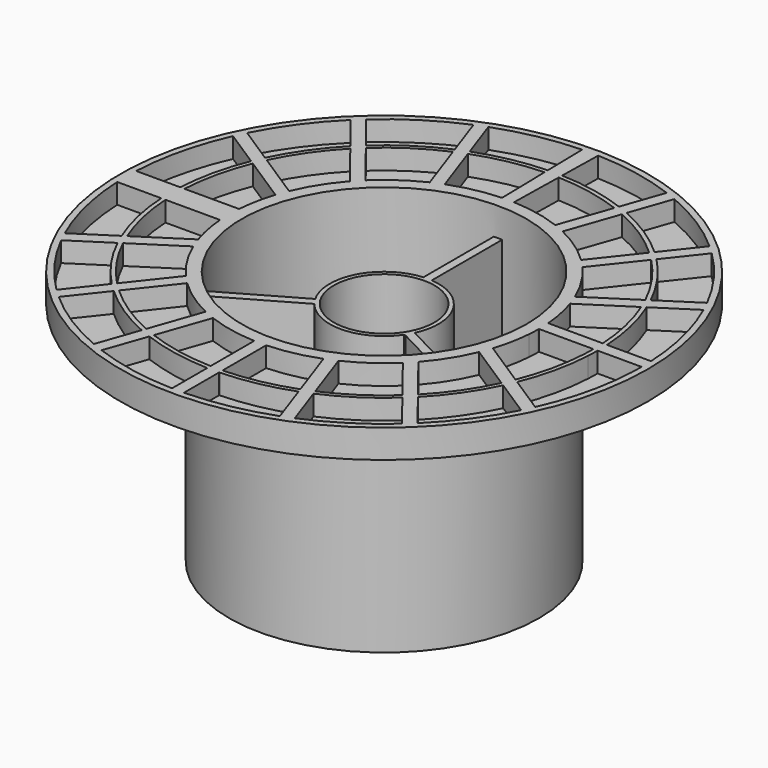
from build123d import *

# Parameters (mm, degrees)
F0_R     = 31.5
F0_R_2   = 17
F1_DEPTH = 3.4
F2_R     = 31.5
F2_R_2   = 18.5
F3_DEPTH = 1
F4_R     = 18.5
F4_R_2   = 17
F5_DEPTH = 27
F6_R     = 6
F7_DEPTH = 25


with BuildPart() as f1:
    # F0 (on Top) → F1 (new body)
    with BuildSketch(Plane.XY):
        Circle(F0_R)
        with BuildLine():
            Line((-27.4436742381, -13.8710938399), (-23.006088724, -10.9986308977))
            ThreePointArc((-23.006088724, -10.9986308977), (-20.9135237136, -14.5902202135), (-18.2652477952, -17.794120461))
            Line((-18.2652477952, -17.794120461), (-21.5415992381, -21.9436095998))
            ThreePointArc((-21.5415992381, -21.9436095998), (-24.8229859617, -18.1488806251), (-27.4436742381, -13.8710938399))
        make_face(mode=Mode.SUBTRACT)
        with BuildLine():
            ThreePointArc((-0.8529855668, -25.4857296467), (-0.782595415, -25.4879882379), (-0.7121992939, -25.4900524159))
            Line((-0.7121992939, -25.4900524159), (-0.7121992939, -30.7417512866))
            ThreePointArc((-0.7121992939, -30.7417512866), (-0.8353914091, -30.7386502826), (-0.9585701076, -30.73505561))
            ThreePointArc((-0.9585701076, -30.73505561), (-5.8759187132, -30.1833742195), (-10.6411145751, -28.8501157814))
            Line((-10.6411145751, -28.8501157814), (-8.9054322446, -23.8944193597))
            ThreePointArc((-8.9054322446, -23.8944193597), (-4.9436572143, -25.0161998183), (-0.8529855668, -25.4857296467))
        make_face(mode=Mode.SUBTRACT)
        with BuildLine():
            Line((-20.4830167761, -22.9348757082), (-17.2223888601, -18.8053003685))
            ThreePointArc((-17.2223888601, -18.8053003685), (-13.9231586227, -21.3634185927), (-10.2507408631, -23.3489252806))
            Line((-10.2507408631, -23.3489252806), (-11.9903908348, -28.315950057))
            ThreePointArc((-11.9903908348, -28.315950057), (-16.4581147387, -25.9748524394), (-20.4830167761, -22.9348757082))
        make_face(mode=Mode.SUBTRACT)
        with BuildLine():
            ThreePointArc((-10.0849663831, -22.8756082553), (-13.6816044176, -20.9239981973), (-16.911693948, -18.4118062071))
            Line((-16.911693948, -18.4118062071), (-12.868466554, -13.2910710083))
            ThreePointArc((-12.868466554, -13.2910710083), (-10.5379738685, -15.2052986405), (-7.9274292982, -16.7154379159))
            Line((-7.9274292982, -16.7154379159), (-10.0849663831, -22.8756082553))
        make_face(mode=Mode.SUBTRACT)
        with BuildLine():
            ThreePointArc((-6.59093834, -17.2861080581), (-3.7005488285, -18.1261120588), (-0.7121992939, -18.4862860566))
            Line((-0.7121992939, -18.4862860566), (-0.7121992939, -24.9898533842))
            ThreePointArc((-0.7121992939, -24.9898533842), (-0.7775671701, -24.9879048601), (-0.8429297254, -24.9857853484))
            ThreePointArc((-0.8429297254, -24.9857853484), (-4.8548680935, -24.5240750242), (-8.740122944, -23.4224305085))
            Line((-8.740122944, -23.4224305085), (-6.59093834, -17.2861080581))
        make_face(mode=Mode.SUBTRACT)
        with BuildLine():
            Line((-22.5827890407, -10.7246276926), (-17.0620300047, -7.1510231518))
            ThreePointArc((-17.0620300047, -7.1510231518), (-15.6765736872, -9.8231887607), (-13.8761309472, -12.2353173206))
            Line((-13.8761309472, -12.2353173206), (-17.95270536, -17.3982864173))
            ThreePointArc((-17.95270536, -17.3982864173), (-20.5405941192, -14.2507541285), (-22.5827890407, -10.7246276926))
        make_face(mode=Mode.SUBTRACT)
        with BuildLine():
            ThreePointArc((-28.0721264282, -12.5506261915), (-29.9172225404, -7.1079037325), (-30.7173382505, -1.4169088916))
            Line((-30.7173382505, -1.4169088916), (-25.4606042582, -1.4169088916))
            ThreePointArc((-25.4606042582, -1.4169088916), (-24.8743005284, -5.6141939069), (-23.6009285068, -9.6564058332))
            Line((-23.6009285068, -9.6564058332), (-28.0721264282, -12.5506261915))
        make_face(mode=Mode.SUBTRACT)
        with BuildLine():
            ThreePointArc((-23.1736634862, -9.3798358529), (-24.393851507, -5.471746399), (-24.9598150873, -1.4169088916))
            Line((-24.9598150873, -1.4169088916), (-18.4456599013, -1.4169088916))
            ThreePointArc((-18.4456599013, -1.4169088916), (-18.1435359718, -3.6141530735), (-17.5806349144, -5.7594510162))
            Line((-17.5806349144, -5.7594510162), (-23.1736634862, -9.3798358529))
        make_face(mode=Mode.SUBTRACT)
        with BuildLine():
            Line((0.7121992939, -30.7417512866), (0.7121992939, -25.4900524159))
            ThreePointArc((0.7121992939, -25.4900524159), (0.782595415, -25.4879882379), (0.8529855668, -25.4857296467))
            ThreePointArc((0.8529855668, -25.4857296467), (4.9436572143, -25.0161998183), (8.9054322446, -23.8944193597))
            Line((8.9054322446, -23.8944193597), (10.6411145751, -28.8501157814))
            ThreePointArc((10.6411145751, -28.8501157814), (5.8759187132, -30.1833742195), (0.9585701076, -30.73505561))
            ThreePointArc((0.9585701076, -30.73505561), (0.8353914091, -30.7386502826), (0.7121992939, -30.7417512866))
        make_face(mode=Mode.SUBTRACT)
        with BuildLine():
            Line((0.7121992939, -24.9898533842), (0.7121992939, -18.4862860566))
            ThreePointArc((0.7121992939, -18.4862860566), (3.7005488285, -18.1261120588), (6.59093834, -17.2861080581))
            Line((6.59093834, -17.2861080581), (8.740122944, -23.4224305085))
            ThreePointArc((8.740122944, -23.4224305085), (4.8548680935, -24.5240750242), (0.8429297254, -24.9857853484))
            ThreePointArc((0.8429297254, -24.9857853484), (0.7775671701, -24.9879048601), (0.7121992939, -24.9898533842))
        make_face(mode=Mode.SUBTRACT)
        with BuildLine():
            Line((17.2223888601, -18.8053003685), (20.4830167761, -22.9348757082))
            ThreePointArc((20.4830167761, -22.9348757082), (16.4581147387, -25.9748524394), (11.9903908348, -28.315950057))
            Line((11.9903908348, -28.315950057), (10.2507408631, -23.3489252806))
            ThreePointArc((10.2507408631, -23.3489252806), (13.9231586227, -21.3634185927), (17.2223888601, -18.8053003685))
        make_face(mode=Mode.SUBTRACT)
        with BuildLine():
            ThreePointArc((7.9274292982, -16.7154379159), (10.5379738685, -15.2052986405), (12.868466554, -13.2910710083))
            Line((12.868466554, -13.2910710083), (16.911693948, -18.4118062071))
            ThreePointArc((16.911693948, -18.4118062071), (13.6816044176, -20.9239981973), (10.0849663831, -22.8756082553))
            Line((10.0849663831, -22.8756082553), (7.9274292982, -16.7154379159))
        make_face(mode=Mode.SUBTRACT)
        with BuildLine():
            ThreePointArc((18.2652477952, -17.794120461), (20.9135237136, -14.5902202135), (23.006088724, -10.9986308977))
            Line((23.006088724, -10.9986308977), (27.4436742381, -13.8710938399))
            ThreePointArc((27.4436742381, -13.8710938399), (24.8229859617, -18.1488806251), (21.5415992381, -21.9436095998))
            Line((21.5415992381, -21.9436095998), (18.2652477952, -17.794120461))
        make_face(mode=Mode.SUBTRACT)
        with BuildLine():
            Line((17.95270536, -17.3982864173), (13.8761309472, -12.2353173206))
            ThreePointArc((13.8761309472, -12.2353173206), (15.6765736872, -9.8231887607), (17.0620300047, -7.1510231518))
            Line((17.0620300047, -7.1510231518), (22.5827890407, -10.7246276926))
            ThreePointArc((22.5827890407, -10.7246276926), (20.5405941192, -14.2507541285), (17.95270536, -17.3982864173))
        make_face(mode=Mode.SUBTRACT)
        with BuildLine():
            ThreePointArc((18.4994527055, -0.1423010723), (18.4997921429, -0.0876964724), (18.4999704048, -0.0330911084))
            Line((18.4999704048, -0.0330911084), (24.9999780996, -0.0330911084))
            ThreePointArc((24.9999780996, -0.0330911084), (24.9894772201, -0.7252780618), (24.9598150873, -1.4169088916))
            ThreePointArc((24.9598150873, -1.4169088916), (24.393851507, -5.471746399), (23.1736634862, -9.3798358529))
            Line((23.1736634862, -9.3798358529), (17.5806349144, -5.7594510162))
            ThreePointArc((17.5806349144, -5.7594510162), (18.1435359718, -3.6141530735), (18.4456599013, -1.4169088916))
            ThreePointArc((18.4456599013, -1.4169088916), (18.4835465389, -0.7800688074), (18.4994527055, -0.1423010723))
        make_face(mode=Mode.SUBTRACT)
        with BuildLine():
            ThreePointArc((25.4606042582, -1.4169088916), (25.4896839411, -0.7252672496), (25.499978529, -0.0330911084))
            Line((25.499978529, -0.0330911084), (30.7499821948, -0.0330911084))
            ThreePointArc((30.7499821948, -0.0330911084), (30.7414477309, -0.7251837055), (30.7173382505, -1.4169088916))
            ThreePointArc((30.7173382505, -1.4169088916), (29.9172225404, -7.1079037325), (28.0721264282, -12.5506261915))
            Line((28.0721264282, -12.5506261915), (23.6009285068, -9.6564058332))
            ThreePointArc((23.6009285068, -9.6564058332), (24.8743005284, -5.6141939069), (25.4606042582, -1.4169088916))
        make_face(mode=Mode.SUBTRACT)
        with BuildLine():
            Line((-25.4606042582, 1.4169088916), (-30.7173382505, 1.4169088916))
            ThreePointArc((-30.7173382505, 1.4169088916), (-29.9172225404, 7.1079037325), (-28.0721264282, 12.5506261915))
            Line((-28.0721264282, 12.5506261915), (-23.6009285068, 9.6564058332))
            ThreePointArc((-23.6009285068, 9.6564058332), (-24.8743005284, 5.6141939069), (-25.4606042582, 1.4169088916))
        make_face(mode=Mode.SUBTRACT)
        with BuildLine():
            ThreePointArc((-17.5806349144, 5.7594510162), (-18.1435359718, 3.6141530735), (-18.4456599013, 1.4169088916))
            Line((-18.4456599013, 1.4169088916), (-24.9598150873, 1.4169088916))
            ThreePointArc((-24.9598150873, 1.4169088916), (-24.393851507, 5.471746399), (-23.1736634862, 9.3798358529))
            Line((-23.1736634862, 9.3798358529), (-17.5806349144, 5.7594510162))
        make_face(mode=Mode.SUBTRACT)
        with BuildLine():
            Line((-17.95270536, 17.3982864173), (-13.8761309472, 12.2353173206))
            ThreePointArc((-13.8761309472, 12.2353173206), (-15.6765736872, 9.8231887607), (-17.0620300047, 7.1510231518))
            Line((-17.0620300047, 7.1510231518), (-22.5827890407, 10.7246276926))
            ThreePointArc((-22.5827890407, 10.7246276926), (-20.5405941192, 14.2507541285), (-17.95270536, 17.3982864173))
        make_face(mode=Mode.SUBTRACT)
        with BuildLine():
            ThreePointArc((-18.2652477952, 17.794120461), (-20.9135237136, 14.5902202135), (-23.006088724, 10.9986308977))
            Line((-23.006088724, 10.9986308977), (-27.4436742381, 13.8710938399))
            ThreePointArc((-27.4436742381, 13.8710938399), (-24.8229859617, 18.1488806251), (-21.5415992381, 21.9436095998))
            Line((-21.5415992381, 21.9436095998), (-18.2652477952, 17.794120461))
        make_face(mode=Mode.SUBTRACT)
        with BuildLine():
            Line((-12.868466554, 13.2910710083), (-16.911693948, 18.4118062071))
            ThreePointArc((-16.911693948, 18.4118062071), (-13.6816044176, 20.9239981973), (-10.0849663831, 22.8756082553))
            Line((-10.0849663831, 22.8756082553), (-7.9274292982, 16.7154379159))
            ThreePointArc((-7.9274292982, 16.7154379159), (-10.5379738685, 15.2052986405), (-12.868466554, 13.2910710083))
        make_face(mode=Mode.SUBTRACT)
        with BuildLine():
            Line((-17.2223888601, 18.8053003685), (-20.4830167761, 22.9348757082))
            ThreePointArc((-20.4830167761, 22.9348757082), (-16.4581147387, 25.9748524394), (-11.9903908348, 28.315950057))
            Line((-11.9903908348, 28.315950057), (-10.2507408631, 23.3489252806))
            ThreePointArc((-10.2507408631, 23.3489252806), (-13.9231586227, 21.3634185927), (-17.2223888601, 18.8053003685))
        make_face(mode=Mode.SUBTRACT)
        with BuildLine():
            Line((-0.8429297254, 24.9857853484), (-0.7121992939, 18.4862860566))
            ThreePointArc((-0.7121992939, 18.4862860566), (-3.7005488285, 18.1261120588), (-6.59093834, 17.2861080581))
            Line((-6.59093834, 17.2861080581), (-8.740122944, 23.4224305085))
            ThreePointArc((-8.740122944, 23.4224305085), (-4.8548680935, 24.5240750242), (-0.8429297254, 24.9857853484))
        make_face(mode=Mode.SUBTRACT)
        with BuildLine():
            Line((-0.9585701076, 30.73505561), (-0.8529855668, 25.4857296467))
            ThreePointArc((-0.8529855668, 25.4857296467), (-4.9436572143, 25.0161998183), (-8.9054322446, 23.8944193597))
            Line((-8.9054322446, 23.8944193597), (-10.6411145751, 28.8501157814))
            ThreePointArc((-10.6411145751, 28.8501157814), (-5.8759187132, 30.1833742195), (-0.9585701076, 30.73505561))
        make_face(mode=Mode.SUBTRACT)
        Circle(F0_R_2, mode=Mode.SUBTRACT)
        with BuildLine():
            ThreePointArc((23.1736634862, 9.3798358529), (24.393851507, 5.471746399), (24.9598150873, 1.4169088916))
            Line((24.9598150873, 1.4169088916), (18.4456599013, 1.4169088916))
            ThreePointArc((18.4456599013, 1.4169088916), (18.1435359718, 3.6141530735), (17.5806349144, 5.7594510162))
            Line((17.5806349144, 5.7594510162), (23.1736634862, 9.3798358529))
        make_face(mode=Mode.SUBTRACT)
        with BuildLine():
            Line((30.7173382505, 1.4169088916), (25.4606042582, 1.4169088916))
            ThreePointArc((25.4606042582, 1.4169088916), (24.8743005284, 5.6141939069), (23.6009285068, 9.6564058332))
            Line((23.6009285068, 9.6564058332), (28.0721264282, 12.5506261915))
            ThreePointArc((28.0721264282, 12.5506261915), (29.9172225404, 7.1079037325), (30.7173382505, 1.4169088916))
        make_face(mode=Mode.SUBTRACT)
        with BuildLine():
            ThreePointArc((17.0620300047, 7.1510231518), (15.6765736872, 9.8231887607), (13.8761309472, 12.2353173206))
            Line((13.8761309472, 12.2353173206), (17.95270536, 17.3982864173))
            ThreePointArc((17.95270536, 17.3982864173), (20.5405941192, 14.2507541285), (22.5827890407, 10.7246276926))
            Line((22.5827890407, 10.7246276926), (17.0620300047, 7.1510231518))
        make_face(mode=Mode.SUBTRACT)
        with BuildLine():
            Line((0.7121992939, 18.4862860566), (0.8429297254, 24.9857853484))
            ThreePointArc((0.8429297254, 24.9857853484), (4.8548680935, 24.5240750242), (8.740122944, 23.4224305085))
            Line((8.740122944, 23.4224305085), (6.59093834, 17.2861080581))
            ThreePointArc((6.59093834, 17.2861080581), (3.7005488285, 18.1261120588), (0.7121992939, 18.4862860566))
        make_face(mode=Mode.SUBTRACT)
        with BuildLine():
            Line((7.9274292982, 16.7154379159), (10.0849663831, 22.8756082553))
            ThreePointArc((10.0849663831, 22.8756082553), (13.6816044176, 20.9239981973), (16.911693948, 18.4118062071))
            Line((16.911693948, 18.4118062071), (12.868466554, 13.2910710083))
            ThreePointArc((12.868466554, 13.2910710083), (10.5379738685, 15.2052986405), (7.9274292982, 16.7154379159))
        make_face(mode=Mode.SUBTRACT)
        with BuildLine():
            Line((10.2507408631, 23.3489252806), (11.9903908348, 28.315950057))
            ThreePointArc((11.9903908348, 28.315950057), (16.4581147387, 25.9748524394), (20.4830167761, 22.9348757082))
            Line((20.4830167761, 22.9348757082), (17.2223888601, 18.8053003685))
            ThreePointArc((17.2223888601, 18.8053003685), (13.9231586227, 21.3634185927), (10.2507408631, 23.3489252806))
        make_face(mode=Mode.SUBTRACT)
        with BuildLine():
            Line((0.8529855668, 25.4857296467), (0.9585701076, 30.73505561))
            ThreePointArc((0.9585701076, 30.73505561), (5.8759187132, 30.1833742195), (10.6411145751, 28.8501157814))
            Line((10.6411145751, 28.8501157814), (8.9054322446, 23.8944193597))
            ThreePointArc((8.9054322446, 23.8944193597), (4.9436572143, 25.0161998183), (0.8529855668, 25.4857296467))
        make_face(mode=Mode.SUBTRACT)
        with BuildLine():
            ThreePointArc((23.006088724, 10.9986308977), (20.9135237136, 14.5902202135), (18.2652477952, 17.794120461))
            Line((18.2652477952, 17.794120461), (21.5415992381, 21.9436095998))
            ThreePointArc((21.5415992381, 21.9436095998), (24.8229859617, 18.1488806251), (27.4436742381, 13.8710938399))
            Line((27.4436742381, 13.8710938399), (23.006088724, 10.9986308977))
        make_face(mode=Mode.SUBTRACT)
    extrude(amount=F1_DEPTH)

    # F2 (on Top) → F3 (join)
    with BuildSketch(Plane.XY):
        Circle(F2_R)
        Circle(F2_R_2, mode=Mode.SUBTRACT)
    extrude(amount=F3_DEPTH)

    # F4 (on Top) → F5 (join)
    with BuildSketch(Plane.XY):
        Circle(F4_R)
        Circle(F4_R_2, mode=Mode.SUBTRACT)
    extrude(amount=-F5_DEPTH)

    # F6 (on Top) → F7 (join)
    with BuildSketch(Plane.XY):
        with BuildLine():
            Line((-0.5, 17.0974247204), (-0.5, 6.4807406984))
            ThreePointArc((-0.5, 6.4807406984), (-5.7440422842, 3.0423639226), (-5.6420582812, -3.2275653907))
            Line((-5.6420582812, -3.2275653907), (-14.7838071497, -8.4644291241))
            Line((-14.7838071497, -8.4644291241), (-14.2867377883, -9.3321399342))
            Line((-14.2867377883, -9.3321399342), (-5.1449889198, -4.0952762008))
            Line((-5.1449889198, -4.0952762008), (-5.0825737728, -4.0518444989))
            ThreePointArc((-5.0825737728, -4.0518444989), (0.2095031152, -6.4966228492), (5.3330699834, -3.7159607845))
            Line((5.3330699834, -3.7159607845), (5.5204526808, -3.7159607845))
            Line((5.5204526808, -3.7159607845), (15.0140469301, -8.6599619607))
            Line((15.0140469301, -8.6599619607), (15.4759387861, -7.7730257097))
            Line((15.4759387861, -7.7730257097), (5.8780164098, -2.7746933319))
            ThreePointArc((5.8780164098, -2.7746933319), (5.6201012538, 3.2656487712), (0.5, 6.4807406984))
            Line((0.5, 6.4807406984), (0.5, 17.0974247204))
            Line((0.5, 17.0974247204), (-0.5, 17.0974247204))
        make_face()
        Circle(F6_R, mode=Mode.SUBTRACT)
    extrude(amount=-F7_DEPTH)


solid = f1.part
